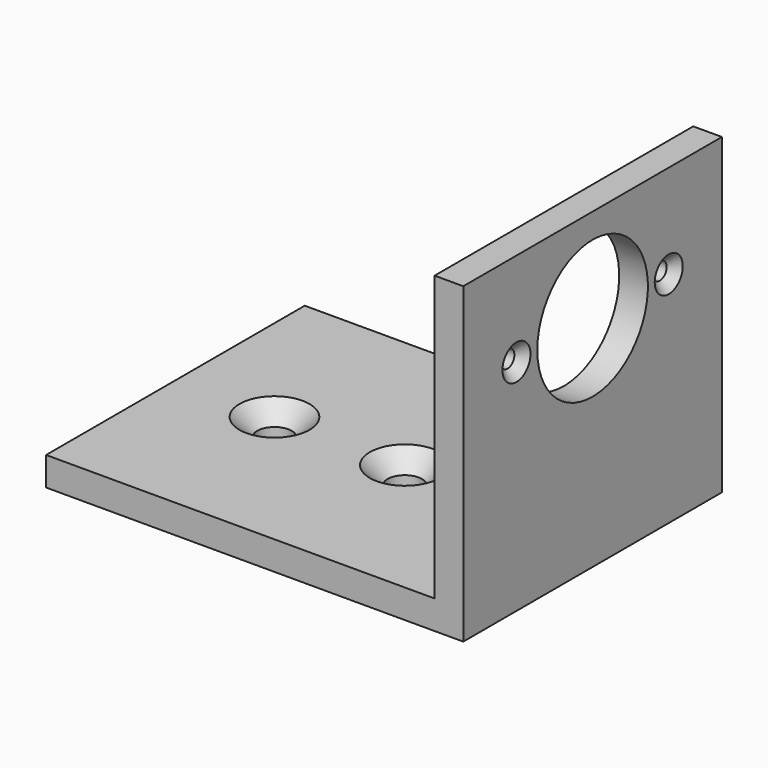
from build123d import *

# Parameters (mm, degrees)
F1_DEPTH       = 62
F3_D           = 26.5
F5_D           = 3.3
F5_CSINK_D     = 6.72
F5_CSINK_ANGLE = 90
F7_D           = 6.6
F7_CSINK_D     = 13.44
F7_CSINK_ANGLE = 90


with BuildPart() as f1:
    # F0 (on Front) → F1 (new body)
    with BuildSketch(Plane.XZ):
        Polygon((0, 5.5), (0, 0), (80, 0), (80, 60), (74.5, 60), (74.5, 5.5), align=None)
    extrude(amount=-F1_DEPTH)

    # F3 (through all)
    with Locations(Plane.YZ.offset(80)):
        with Locations((31, 42)):
            Hole(F3_D / 2)

    # F5 (through all)
    with Locations(Plane.YZ.offset(80)):
        with Locations((12.75, 42), (49.25, 42)):
            CounterSinkHole(F5_D / 2, F5_CSINK_D / 2, counter_sink_angle=F5_CSINK_ANGLE)

    # F7 (through all)
    with Locations(Plane.XY.offset(5.5)):
        with Locations((19, 31), (44, 31)):
            CounterSinkHole(F7_D / 2, F7_CSINK_D / 2, counter_sink_angle=F7_CSINK_ANGLE)


solid = f1.part
